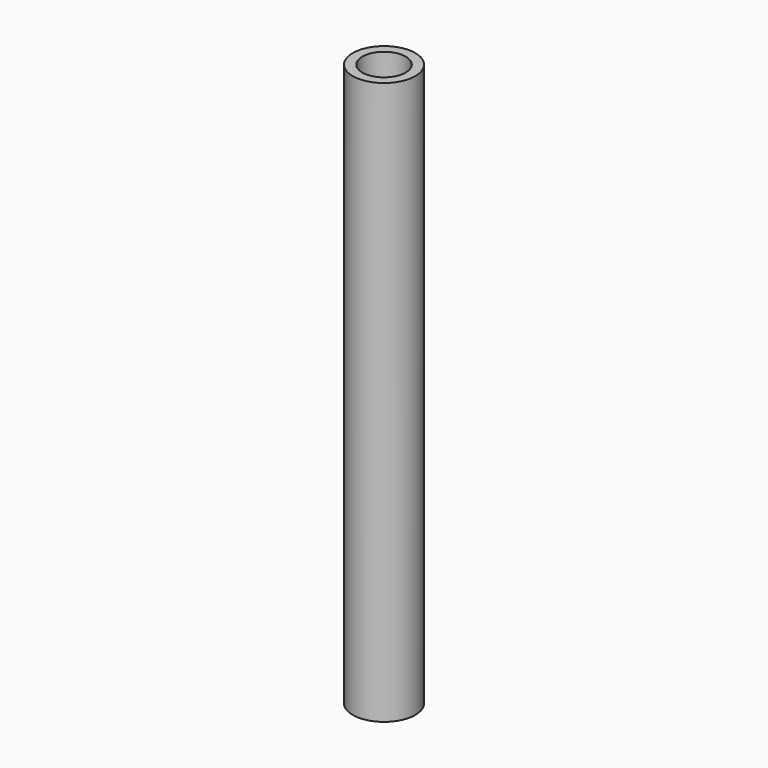
from build123d import *

# Parameters (mm, degrees)
F0_R     = 10.5918
F0_R_2   = 3.2639
F1_DEPTH = 95.25
F3_D     = 14.684375
F3_DEPTH = 12.7
F3_TIP   = 4.4116313263


with BuildPart() as f1:
    # F0 (on Top) → F1 (new body, symmetric)
    with BuildSketch(Plane.XY):
        Circle(F0_R)
        Circle(F0_R_2, mode=Mode.SUBTRACT)
    extrude(amount=F1_DEPTH, both=True)

    # F3
    with Locations(Plane.XY.offset(95.25)):
        with Locations((0, 0)):
            Hole(F3_D / 2, depth=F3_DEPTH)
            with Locations((0, 0, -(F3_DEPTH + F3_TIP / 2))):  # 118° drill point
                Cone(0, F3_D / 2, F3_TIP, mode=Mode.SUBTRACT)


solid = f1.part
